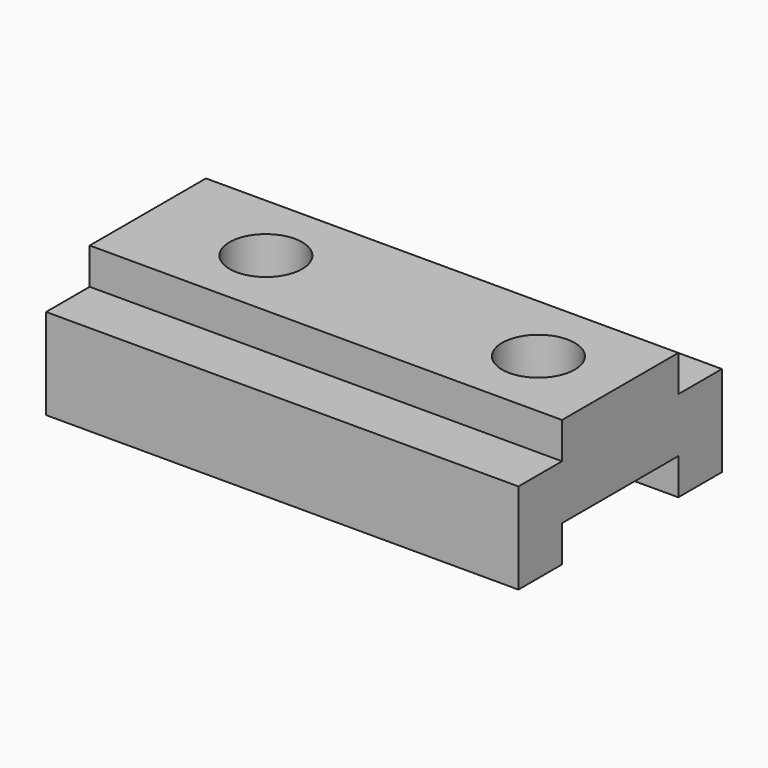
from build123d import *

# Parameters (mm, degrees)
F0_W     = 165.1
F0_H     = 44.45
F1_DEPTH = 88.9
F2_W     = 165.1
F2_H     = 19.05
F3_DEPTH = 12.7
F4_W     = 50.8
F4_H     = 12.7
F5_DEPTH = 165.101
F6_R     = 12.7
F7_DEPTH = 44.451


with BuildPart() as f1:
    # F0 (on Front) → F1 (new body)
    with BuildSketch(Plane.XZ):
        with Locations((82.55, 22.225)):
            Rectangle(F0_W, F0_H)
    extrude(amount=F1_DEPTH)

    # F2 (on face) → F3 (cut)
    with BuildSketch(Plane.XY.offset(44.45)):
        with Locations((82.55, -9.525)):
            Rectangle(F2_W, F2_H)
        with Locations((82.55, -79.375)):
            Rectangle(F2_W, F2_H)
    extrude(amount=-F3_DEPTH, mode=Mode.SUBTRACT)

    # F4 (on face) → F5 (cut, through all)
    with BuildSketch(Plane.YZ.offset(165.1)):
        with Locations((-44.45, 6.35)):
            Rectangle(F4_W, F4_H)
    extrude(amount=-F5_DEPTH, mode=Mode.SUBTRACT)

    # F6 (on face) → F7 (cut, through all)
    with BuildSketch(Plane.XY.offset(44.45)):
        with Locations((41.275, -44.45)):
            Circle(F6_R)
        with Locations((136.525, -44.45)):
            Circle(F6_R)
    extrude(amount=-F7_DEPTH, mode=Mode.SUBTRACT)


solid = f1.part
